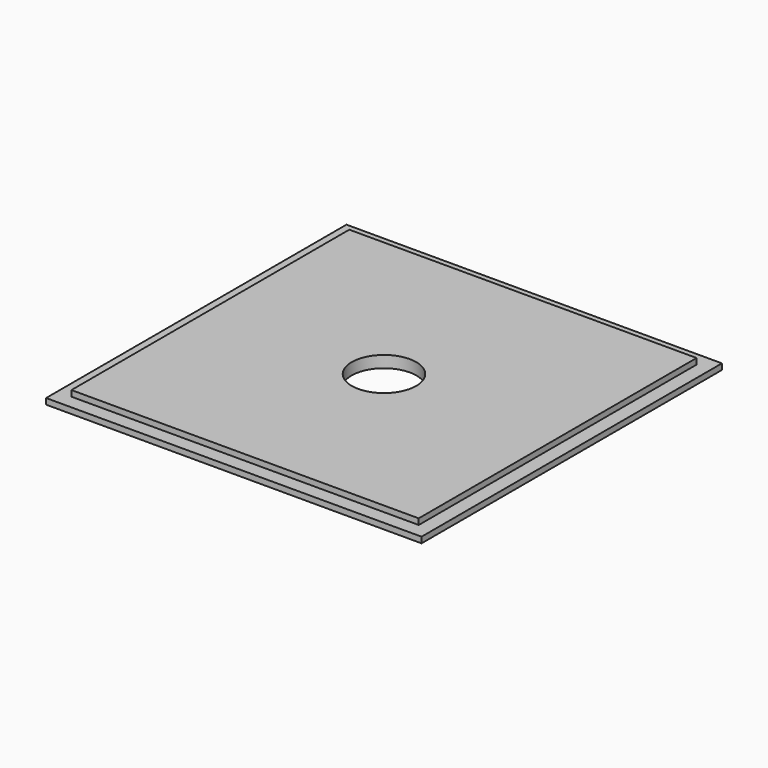
from build123d import *

# Parameters (mm, degrees)
F0_W     = 203.2
F0_H     = 203.2
F1_DEPTH = 3.175
F2_W     = 187.96
F2_H     = 187.96
F3_DEPTH = 3.175
F4_R     = 17.4625
F5_DEPTH = 25.4


with BuildPart() as f1:
    # F0 (on Top) → F1 (new body)
    with BuildSketch(Plane.XY):
        Rectangle(F0_W, F0_H)
    extrude(amount=F1_DEPTH)

    # F2 (on face) → F3 (join)
    with BuildSketch(Plane.XY.offset(3.175)):
        Rectangle(F2_W, F2_H)
    extrude(amount=F3_DEPTH)

    # F4 (on face) → F5 (cut)
    with BuildSketch(Plane.XY.offset(6.35)):
        Circle(F4_R)
    extrude(amount=-F5_DEPTH, mode=Mode.SUBTRACT)


solid = f1.part
